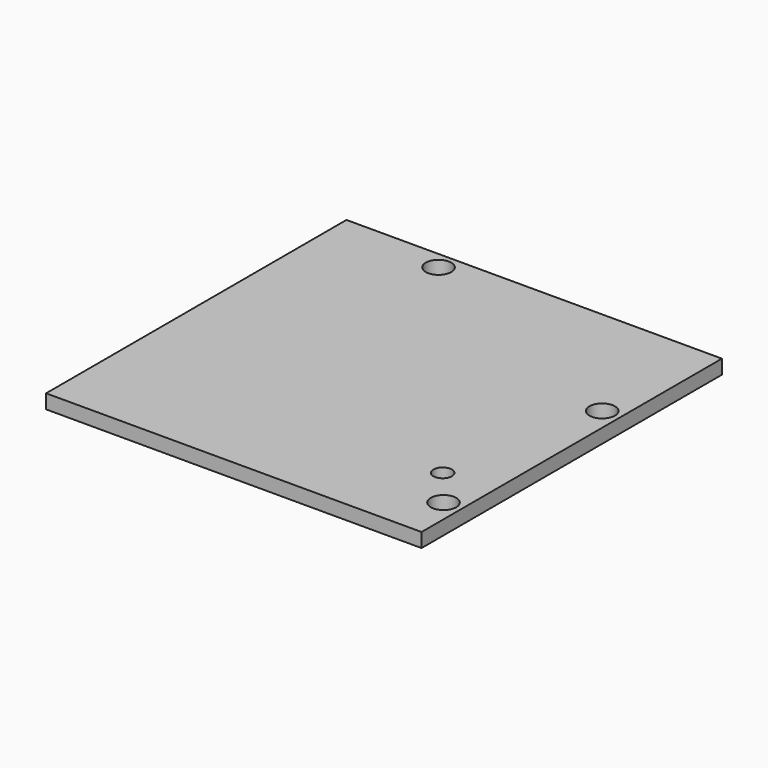
from build123d import *

# Parameters (mm, degrees)
SKETCH_W   = 53
SKETCH_H   = 53
SKETCH_R   = 1.8
SKETCH_R_2 = 1.3
PAD_DEPTH  = 2


with BuildPart() as part:
    # Sketch → Pad (new body)
    with BuildSketch(Plane.XY):
        with Locations((1.829678, 0.707002)):
            Rectangle(SKETCH_W, SKETCH_H)
        with Locations((25.829678, 9.207002)):
            Circle(SKETCH_R, mode=Mode.SUBTRACT)
        with Locations((25.829678, -18.792998)):
            Circle(SKETCH_R, mode=Mode.SUBTRACT)
        with Locations((-9.670322, 24.707002)):
            Circle(SKETCH_R, mode=Mode.SUBTRACT)
        with Locations((21.329678, -13.321723)):
            Circle(SKETCH_R_2, mode=Mode.SUBTRACT)
    extrude(amount=PAD_DEPTH)


solid = part.part
